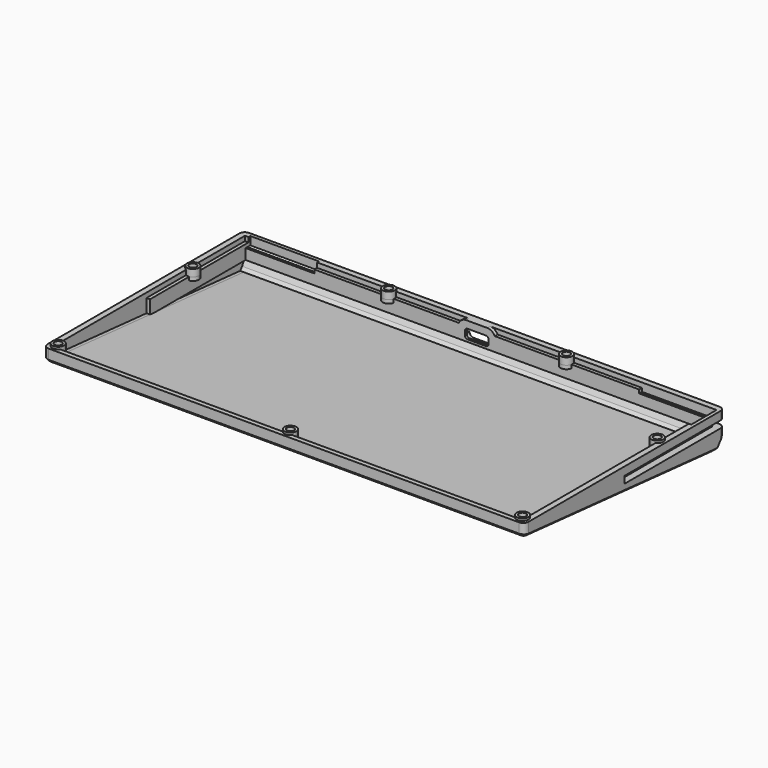
from build123d import *

# Parameters (mm, degrees)
PAD004_DEPTH     = 50
POCKET011_DEPTH  = 211.5
POCKET012_DEPTH  = 5
CHAMFER_SIZE     = 1
POCKET013_DEPTH  = 0.001
POCKET014_DEPTH  = 3
POCKET016_DEPTH  = 198.2
POCKET017_DEPTH  = 201.2
SKETCH025_W      = 30
SKETCH025_H      = 5
POCKET019_DEPTH  = 3.55
PAD006_DEPTH     = 0.5
SKETCH026_R      = 2.55
PAD007_DEPTH     = 3
PAD008_DEPTH     = 1.5
SKETCH029_R      = 1.55
POCKET020_DEPTH  = 3.1
POCKET024_DEPTH  = 3
PAD011_DEPTH     = 1.5
PAD011_FACE129_W = 1
PAD011_FACE129_H = 10.802776
PAD012_DEPTH     = 1


with BuildPart() as part:
    # Sketch015 (on DatumPlane) → Pad004 (new body)
    with BuildSketch(Plane.XY.offset(-4.5)):
        with BuildLine():
            ThreePointArc((-100.8, 53.7125), (-102.426346, 53.038846), (-103.1, 51.4125))
            Line((-103.1, -51.4125), (-103.1, 51.4125))
            ThreePointArc((-103.1, -51.4125), (-102.426346, -53.038846), (-100.8, -53.7125))
            Line((100.8, -53.7125), (-100.8, -53.7125))
            ThreePointArc((100.8, -53.7125), (102.426346, -53.038846), (103.1, -51.4125))
            Line((103.1, 51.4125), (103.1, -51.4125))
            ThreePointArc((103.1, 51.4125), (102.426346, 53.038846), (100.8, 53.7125))
            Line((-100.8, 53.7125), (100.8, 53.7125))
        make_face()
    extrude(amount=-PAD004_DEPTH)

    # Sketch016 (on DatumPlane) → Pocket011 (cut)
    with BuildSketch(Plane(origin=(-105.75, 0, -8.5), x_dir=(0, 1, 0), z_dir=(1, 0, 0))):
        Polygon((-56.3625, -1), (48.97941, -10.216223), (56.3625, -1), (56.3625, -121), (-56.3625, -121), align=None)
    extrude(amount=POCKET011_DEPTH, mode=Mode.SUBTRACT)

    # Sketch017 (on Face5 of Pocket011) → Pocket012 (cut)
    with BuildSketch(Plane(origin=(0, 53.7125, -4.5), x_dir=(-1, 0, 0), z_dir=(0, 1, 0))):
        with BuildLine():
            ThreePointArc((-4, -3.05), (-4.707107, -3.342893), (-5, -4.05))
            Line((-5, -6.05), (-5, -4.05))
            ThreePointArc((-5, -6.05), (-4.707107, -6.757107), (-4, -7.05))
            Line((4, -7.05), (-4, -7.05))
            ThreePointArc((4, -7.05), (4.707107, -6.757107), (5, -6.05))
            Line((5, -4.05), (5, -6.05))
            ThreePointArc((5, -4.05), (4.707107, -3.342893), (4, -3.05))
            Line((-4, -3.05), (4, -3.05))
        make_face()
    extrude(amount=-POCKET012_DEPTH, mode=Mode.SUBTRACT)

    # Chamfer
    chamfer_edges = [part.edges().sort_by_distance(p)[0] for p in [
        (-103.1, -1.216545, -14.324646),
        (0, 48.97941, -18.716223),
    ]]
    chamfer(chamfer_edges, length=CHAMFER_SIZE)

    # Sketch018 (on Face8 of Chamfer) → Pocket013 (cut)
    with BuildSketch(Plane(origin=(0, 53.7125, -4.5), x_dir=(-1, 0, 0), z_dir=(0, 1, 0))):
        with BuildLine():
            Line((5, -4.05), (97.5, -4.05))
            ThreePointArc((97.770583, -4.320583), (97.691331, -4.129252), (97.5, -4.05))
            Line((97.770583, -4.320583), (97.770583, -5.779417))
            ThreePointArc((97.5, -6.05), (97.691331, -5.970748), (97.770583, -5.779417))
            Line((97.5, -6.05), (5, -6.05))
            Line((5, -4.05), (5, -6.05))
        make_face()
        with BuildLine():
            ThreePointArc((-97.5, -4.05), (-97.853553, -4.196447), (-98, -4.55))
            Line((-98, -5.55), (-98, -4.55))
            ThreePointArc((-98, -5.55), (-97.853553, -5.903553), (-97.5, -6.05))
            Line((-5, -6.05), (-97.5, -6.05))
            Line((-5, -4.05), (-5, -6.05))
            Line((-97.5, -4.05), (-5, -4.05))
        make_face()
    extrude(amount=-POCKET013_DEPTH, mode=Mode.SUBTRACT)

    # Sketch019 (on DatumPlane) → Pocket014 (cut)
    with BuildSketch(Plane.XY.offset(-11.05)):
        with BuildLine():
            ThreePointArc((-100.8, 53.7125), (-102.426346, 53.038846), (-103.1, 51.4125))
            Line((-103.1, 0), (-103.1, 51.4125))
            Line((-100.1, 0), (-103.1, 0))
            Line((-100.1, 0), (-100.1, 50.7125))
            Line((100.1, 50.7125), (-100.1, 50.7125))
            Line((100.1, 50.7125), (100.1, 0))
            Line((103.1, 0), (100.1, 0))
            Line((103.1, 0), (103.1, 51.4125))
            ThreePointArc((103.1, 51.4125), (102.426346, 53.038846), (100.8, 53.7125))
            Line((-100.8, 53.7125), (100.8, 53.7125))
        make_face()
    extrude(amount=POCKET014_DEPTH, mode=Mode.SUBTRACT)

    # Sketch021 (on DatumPlane) → Pocket016 (cut)
    with BuildSketch(Plane.YZ.offset(-99.1)):
        Polygon((-51.7125, -7.925444), (48.666642, -16.707481), (49.7125, -15.401948), (49.7125, 8.5), (-51.7125, 8.5), align=None)
    extrude(amount=POCKET016_DEPTH, mode=Mode.SUBTRACT)

    # Sketch022 (on DatumPlane) → Pocket017 (cut)
    with BuildSketch(Plane.YZ.offset(-100.6)):
        Polygon((-51.7125, 1.5), (-51.7125, -7.925444), (-1.5, -12.318468), (-1.5, -6.55), (51.2125, -6.55), (51.2125, 1.5), align=None)
        Polygon((48.666642, -16.707481), (49.7125, -15.401948), (51.2125, -12.55), (1.14642, -12.55), align=None)
    extrude(amount=POCKET017_DEPTH, mode=Mode.SUBTRACT)

    # Sketch025 (on DatumPlane) → Pocket019 (cut)
    with BuildSketch(Plane.XY.offset(-4.5)):
        Polygon((69.6, 51.2125), (101.6, 51.2125), (101.6, 37.636452), (97.6, 37.636452), (97.6, 48.7125), (69.6, 48.7125), align=None)
        with Locations((-84.6, 49.7125)):
            Rectangle(SKETCH025_W, SKETCH025_H)
    extrude(amount=-POCKET019_DEPTH, mode=Mode.SUBTRACT)

    # Pocket019 Face29 → Pad006 (add)
    with BuildSketch(Plane(origin=(-99.6, 50.141819, -6.918979), x_dir=(0, -1, 0), z_dir=(1, 0, 0))):
        Polygon((-2.070681, -2.418979), (-1.070681, -2.418979), (-1.070681, -0.368979), (2.929319, -0.368979), (2.929319, 1.131021), (-0.570681, 1.131021), (-2.070681, 1.131021), align=None)
    extrude(amount=PAD006_DEPTH)

    # Sketch026 (on Face60 of Pad006) → Pad007 (join)
    with BuildSketch(Plane.XY.offset(-6.55)):
        with Locations((-99.55, 22)):
            Circle(SKETCH026_R)
        with Locations((-99.55, -50.1625)):
            Circle(SKETCH026_R)
        with Locations((0, -50.1625)):
            Circle(SKETCH026_R)
        with Locations((99.55, -50.1625)):
            Circle(SKETCH026_R)
        with Locations((99.55, 22)):
            Circle(SKETCH026_R)
        with Locations((38.1, 50.1625)):
            Circle(SKETCH026_R)
        with Locations((-38.1, 50.1625)):
            Circle(SKETCH026_R)
    extrude(amount=PAD007_DEPTH)

    # Sketch026 (on Face60 of Pad006) → Pad008 (join)
    with BuildSketch(Plane.XY.offset(-6.55)):
        with Locations((-99.55, 22)):
            Circle(SKETCH026_R)
        with Locations((-99.55, -50.1625)):
            Circle(SKETCH026_R)
        with Locations((0, -50.1625)):
            Circle(SKETCH026_R)
        with Locations((99.55, -50.1625)):
            Circle(SKETCH026_R)
        with Locations((99.55, 22)):
            Circle(SKETCH026_R)
        with Locations((38.1, 50.1625)):
            Circle(SKETCH026_R)
        with Locations((-38.1, 50.1625)):
            Circle(SKETCH026_R)
    extrude(amount=-PAD008_DEPTH)

    # Sketch029 (on Face97 of Pad008) → Pocket020 (cut)
    with BuildSketch(Plane.XY.offset(-3.55)):
        with Locations((99.55, 22)):
            Circle(SKETCH029_R)
        with Locations((99.55, -50.1625)):
            Circle(SKETCH029_R)
        with Locations((0, -50.1625)):
            Circle(SKETCH029_R)
        with Locations((38.1, 50.1625)):
            Circle(SKETCH029_R)
        with Locations((-38.1, 50.1625)):
            Circle(SKETCH029_R)
        with Locations((-99.55, 22)):
            Circle(SKETCH029_R)
        with Locations((-99.55, -50.1625)):
            Circle(SKETCH029_R)
    extrude(amount=-POCKET020_DEPTH, mode=Mode.SUBTRACT)

    # Sketch032 (on Face15 of Pocket020) → Pocket024 (cut)
    with BuildSketch(Plane(origin=(0, 53.7125, -4.5), x_dir=(-1, 0, 0), z_dir=(0, 1, 0))):
        with BuildLine():
            ThreePointArc((-4.5, -1.8), (-5.737437, -2.312563), (-6.25, -3.55))
            Line((-6.25, -6.55), (-6.25, -3.55))
            ThreePointArc((-6.25, -6.55), (-5.737437, -7.787437), (-4.5, -8.3))
            Line((4.5, -8.3), (-4.5, -8.3))
            ThreePointArc((4.5, -8.3), (5.737437, -7.787437), (6.25, -6.55))
            Line((6.25, -3.55), (6.25, -6.55))
            ThreePointArc((6.25, -3.55), (5.737437, -2.312563), (4.5, -1.8))
            Line((-4.5, -1.8), (4.5, -1.8))
        make_face()
    extrude(amount=-POCKET024_DEPTH, mode=Mode.SUBTRACT)

    # Sketch033 (on Face32 of Pocket024) → Pad011 (join)
    with BuildSketch(Plane(origin=(0, 51.2125, -4.5), x_dir=(1, 0, 0), z_dir=(0, -1, 0))):
        with BuildLine():
            ThreePointArc((-4.5, -1.8), (-4.967707, -1.863658), (-5.401388, -2.05))
            Line((-7.71753, -2.05), (-5.401388, -2.05))
            ThreePointArc((-4.5, 0), (-6.407551, -0.556048), (-7.71753, -2.05))
            Line((-4.5, 0), (4.5, 0))
            ThreePointArc((7.71753, -2.05), (6.407551, -0.556048), (4.5, 0))
            Line((5.401388, -2.05), (7.71753, -2.05))
            ThreePointArc((5.401388, -2.05), (4.967707, -1.863658), (4.5, -1.8))
            Line((4.5, -1.8), (-4.5, -1.8))
        make_face()
    extrude(amount=PAD011_DEPTH)

    # Pad011 Face129 → Pad012 (add)
    with BuildSketch(Plane(origin=(0, 50.2125, -6.55), x_dir=(0, 1, 0), z_dir=(0, 0, 1))):
        Rectangle(PAD011_FACE129_W, PAD011_FACE129_H)
    extrude(amount=PAD012_DEPTH)


solid = part.part
